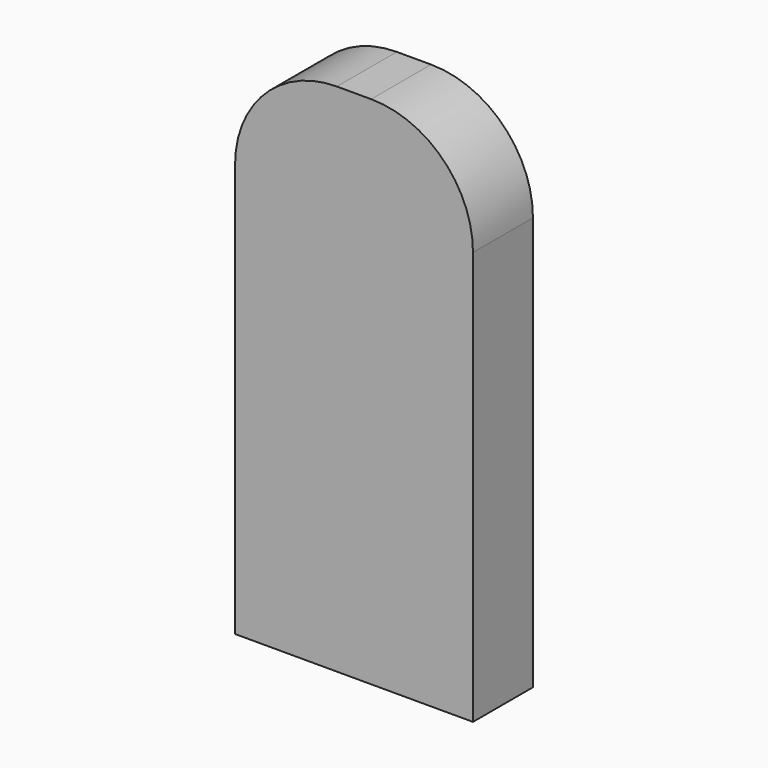
from build123d import *

# Parameters (mm, degrees)
F1_DEPTH = 8.001


with BuildPart() as f1:
    # F0 (on Front) → F1 (new body)
    with BuildSketch(Plane.XZ):
        with BuildLine():
            Line((-25.4, 0), (0, 0))
            Line((0, 0), (0, 44.122111))
            ThreePointArc((0, 44.122111), (-3.183424, 51.807576), (-10.868889, 54.991))
            Line((-10.868889, 54.991), (-14.531116, 54.991))
            ThreePointArc((-14.531116, 54.991), (-22.216577, 51.807577), (-25.4, 44.122116))
            Line((-25.4, 44.122116), (-25.4, 0))
        make_face()
    extrude(amount=F1_DEPTH)


solid = f1.part
